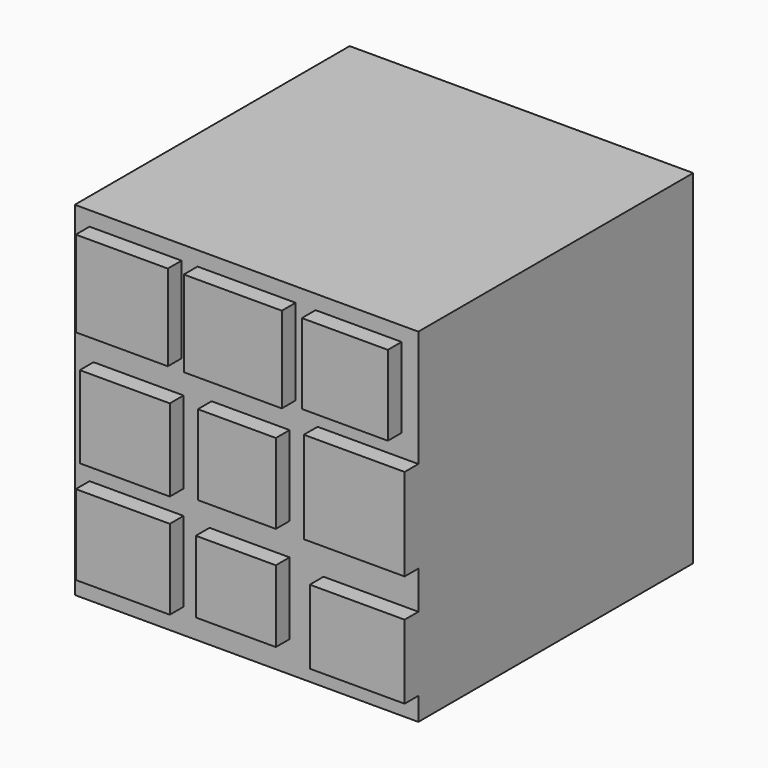
from build123d import *

# Parameters (mm, degrees)
F0_W     = 50.8
F0_H     = 50.8
F1_DEPTH = 50.8
F2_W     = 13.606137
F2_H     = 12.718778
F2_W_2   = 13.310351
F2_H_2   = 12.127209
F2_W_3   = 14.493494
F2_W_4   = 12.718782
F2_H_3   = 11.831421
F2_W_5   = 14.899612
F2_H_4   = 13.606136
F2_W_6   = 11.535638
F2_H_5   = 11.831423
F2_W_7   = 13.901923
F2_W_8   = 11.833843
F2_H_6   = 10.643156
F2_W_9   = 14.022788
F2_H_7   = 10.9388
F3_DEPTH = 2.54


with BuildPart() as f1:
    # F0 (on Top) → F1 (new body)
    with BuildSketch(Plane.XY):
        Rectangle(F0_W, F0_H)
    extrude(amount=F1_DEPTH)

    # F2 (on face) → F3 (join)
    with BuildSketch(Plane.XZ.offset(25.4)):
        with Locations((-16.4161, 42.297339)):
            Rectangle(F2_W, F2_H)
        with Locations((-15.972421, 25.141775)):
            Rectangle(F2_W_2, F2_H_2)
        with Locations((0, 42.297339)):
            Rectangle(F2_W_3, F2_H)
        with Locations((16.563993, 42.741017)):
            Rectangle(F2_W_4, F2_H_3)
        with Locations((17.950194, 26.768596)):
            Rectangle(F2_W_5, F2_H_4)
        with Locations((0.591571, 25.881239)):
            Rectangle(F2_W_6, F2_H_5)
        with Locations((-16.268206, 9.613031)):
            Rectangle(F2_W_7, F2_H_5)
        with Locations((0.442468, 9.905828)):
            Rectangle(F2_W_8, F2_H_6)
        with Locations((18.388606, 8.871076)):
            Rectangle(F2_W_9, F2_H_7)
    extrude(amount=F3_DEPTH)


solid = f1.part
